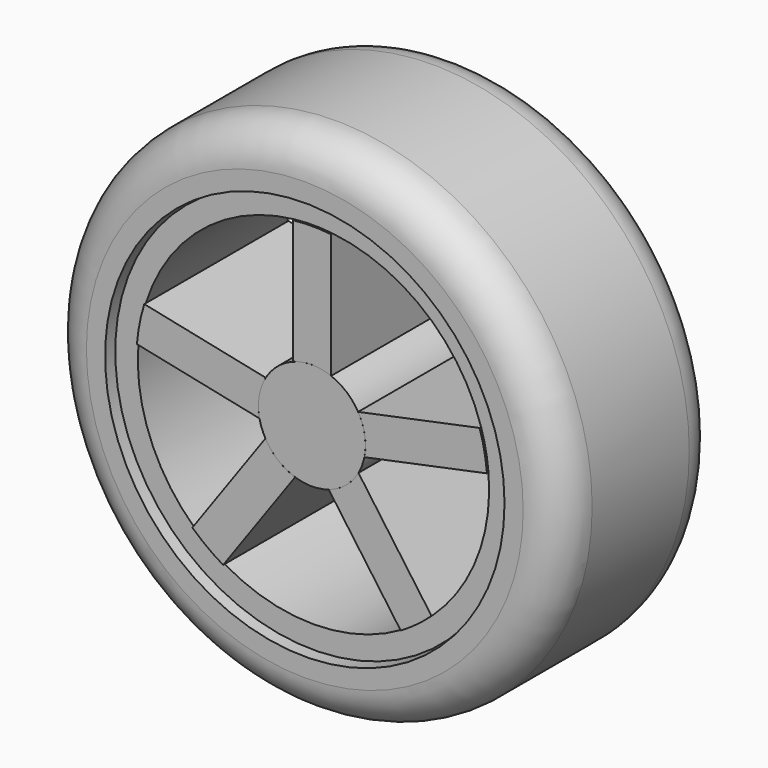
from build123d import *

# Parameters (mm, degrees)
F0_R      = 33.49
F0_R_2    = 26.055
F1_DEPTH  = 12.915
F2_R      = 25.86
F2_R_2    = 22.915
F3_DEPTH  = 11.5
F5_DEPTH  = 11.75
F6_R      = 6.985
F6_W      = 8.6001232266
F6_H      = 4.32
F7_DEPTH  = 11.75
F8_DEPTH  = 18.23
F9_DEPTH  = 11.75
F10_DEPTH = 2
F11_R     = 5


with BuildPart() as f1:
    # F0 (on Front) → F1 (new body, symmetric)
    with BuildSketch(Plane.XZ):
        Circle(F0_R)
        Circle(F0_R_2, mode=Mode.SUBTRACT)
    extrude(amount=F1_DEPTH, both=True)

    # F11
    f11_edges = [f1.edges().sort_by_distance(p)[0] for p in [
        (-33.49, -12.915, 0),
        (-33.49, 12.915, 0),
    ]]
    fillet(f11_edges, radius=F11_R)


with BuildPart() as f3:
    # F2 (on Front) → F3 (new body, symmetric)
    with BuildSketch(Plane.XZ):
        Circle(F2_R)
        Circle(F2_R_2, mode=Mode.SUBTRACT)
    extrude(amount=F3_DEPTH, both=True)

    # F4 (on Front) → F5 (join, symmetric)
    with BuildSketch(Plane.XZ):
        with BuildLine():
            ThreePointArc((-6.8428213669, -1.4021486159), (-6.8909925933, 1.1421234956), (-6.0245626988, 3.5348082392))
            Line((-6.0245626988, 3.5348082392), (-21.8698302466, 6.8416189595))
            ThreePointArc((-21.8698302466, 6.8416189595), (-22.4857340662, 4.4146334507), (-22.8331609913, 1.9349377623))
            Line((-22.8331609913, 1.9349377623), (-6.8428213669, -1.4021486159))
        make_face()
        with BuildLine():
            Line((-11.5847970075, -19.7709307645), (-2.1939170541, -6.6315121171))
            ThreePointArc((-2.1939170541, -6.6315121171), (-4.4265644684, -5.4033093569), (-6.070107141, -3.4560127744))
            Line((-6.070107141, -3.4560127744), (-15.5978938608, -16.7869869872))
            ThreePointArc((-15.5978938608, -16.7869869872), (-13.6729898276, -18.3887621708), (-11.5847970075, -19.7709307645))
        make_face()
        with BuildLine():
            Line((15.5978938608, -16.7869869872), (6.070107141, -3.4560127744))
            ThreePointArc((6.070107141, -3.4560127744), (4.4265644684, -5.4033093569), (2.1939170541, -6.6315121171))
            Line((2.1939170541, -6.6315121171), (11.5847970075, -19.7709307645))
            ThreePointArc((11.5847970075, -19.7709307645), (13.6729898276, -18.3887621708), (15.5978938608, -16.7869869872))
        make_face()
        with BuildLine():
            ThreePointArc((-2.5, 6.5222867922), (0, 6.985), (2.5, 6.5222867922))
            Line((2.5, 6.5222867922), (2.5, 22.7782182139))
            ThreePointArc((2.5, 22.7782182139), (0, 22.915), (-2.5, 22.7782182139))
            Line((-2.5, 22.7782182139), (-2.5, 6.5222867922))
        make_face()
        with BuildLine():
            ThreePointArc((6.0245626988, 3.5348082392), (6.7406155302, 1.8314822615), (6.985, 0))
            ThreePointArc((6.985, 0), (6.9493644403, -0.7046693382), (6.8428213669, -1.4021486159))
            Line((6.8428213669, -1.4021486159), (22.8331609913, 1.9349377623))
            ThreePointArc((22.8331609913, 1.9349377623), (22.4857340662, 4.4146334507), (21.8698302466, 6.8416189595))
            Line((21.8698302466, 6.8416189595), (6.0245626988, 3.5348082392))
        make_face()
    extrude(amount=F5_DEPTH, both=True)


with BuildPart() as f7:
    # F6 (on Front) → F7 (new body)
    with BuildSketch(Plane.XZ):
        Circle(F6_R)
        Rectangle(F6_W, F6_H, mode=Mode.SUBTRACT)
    extrude(amount=F7_DEPTH)


with BuildPart() as f8:
    # F8 (new): a face of the model
    f8_faces = [f7.part.faces().sort_by_distance(p)[0] for p in [
        (-6.7874343653, 0, 0),
    ]]
    extrude(f8_faces, amount=F8_DEPTH)


with BuildPart() as f7_1:
    add(f7.part)

    add(f8.part)  # F9 merges F8
    # F6 (on Front) → F9 (join)
    with BuildSketch(Plane.XZ):
        Rectangle(F6_W, F6_H)
    extrude(amount=F9_DEPTH)

    # F10 (add): a face of the model
    f10_faces = [f7_1.faces().sort_by_distance(p)[0] for p in [
        (0, 0, 0),
    ]]
    extrude(f10_faces, amount=F10_DEPTH)


solid = Compound([f1.part, f3.part, f7_1.part])
